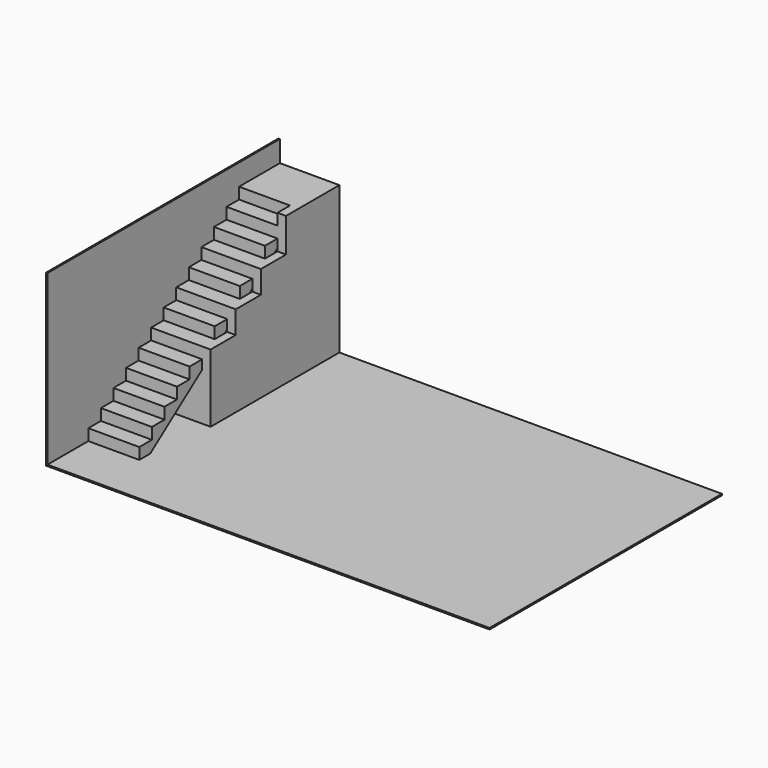
from build123d import *

# Parameters (mm, degrees)
F0_W     = 7924.8
F0_H     = 5207
F1_DEPTH = 25.4
F2_W     = 5207
F2_H     = 3048
F3_DEPTH = 25.4
F5_DEPTH = 914.4
F7_DEPTH = 914.4
F9_DEPTH = 152.4
F10_W    = 914.4
F10_H    = 101.6


with BuildPart() as f1:
    # F0 (on Top) → F1 (new body)
    with BuildSketch(Plane.XY):
        Rectangle(F0_W, F0_H)
    extrude(amount=F1_DEPTH)

    # F2 (on face) → F3 (join)
    with BuildSketch(Plane(origin=(-3962.4, 0, 0), x_dir=(0, -1, 0), z_dir=(-1, 0, 0))):
        with Locations((0, 1524)):
            Rectangle(F2_W, F2_H)
    extrude(amount=F3_DEPTH)

    # F4 (on face) → F5 (join)
    with BuildSketch(Plane.YZ.offset(-3962.4)):
        Polygon((-1689.1, 228.6), (-1689.1, 25.4), (2603.5, 25.4), (2603.5, 2667), (1689.1, 2667), (1689.1, 2463.8), (1407.5833333333, 2463.8), (1407.5833333333, 2260.6), (1126.0666666667, 2260.6), (1126.0666666667, 2057.4), (844.55, 2057.4), (844.55, 1854.2), (563.0333333333, 1854.2), (563.0333333333, 1651), (281.5166666667, 1651), (281.5166666667, 1447.8), (0, 1447.8), (0, 1244.6), (-281.5166666667, 1244.6), (-281.5166666667, 1041.4), (-563.0333333333, 1041.4), (-563.0333333333, 838.2), (-844.55, 838.2), (-844.55, 635), (-1126.0666666667, 635), (-1126.0666666667, 431.8), (-1407.5833333333, 431.8), (-1407.5833333333, 228.6), align=None)
    extrude(amount=F5_DEPTH)

    # F6 (on face) → F7 (cut, through all)
    with BuildSketch(Plane.YZ.offset(-3048)):
        Polygon((2603.5, 25.4), (2603.5, 2463.8), (1891.8667649631, 2463.8), (-1444.6270621974, 25.4), align=None)
    extrude(amount=-F7_DEPTH, mode=Mode.SUBTRACT)

    # F8 (on face) → F9 (join)
    with BuildSketch(Plane.YZ.offset(-3048)):
        Polygon((2603.5, 25.4), (2603.5, 2667), (1407.5833333333, 2667), (1407.5833333333, 2057.4), (844.55, 2057.4), (844.55, 1651), (281.5166666667, 1651), (281.5166666667, 1244.6), (-281.5166666667, 1244.6), (-281.5166666667, 25.4), align=None)
    extrude(amount=F9_DEPTH)

    # F10 (on face) → F11 (join, up to the next surface of F1)
    with BuildSketch(Plane.XY.offset(25.4)):
        with Locations((-3505.2, -230.7166666667)):
            Rectangle(F10_W, F10_H)
    extrude(until=Until.NEXT)


solid = f1.part
